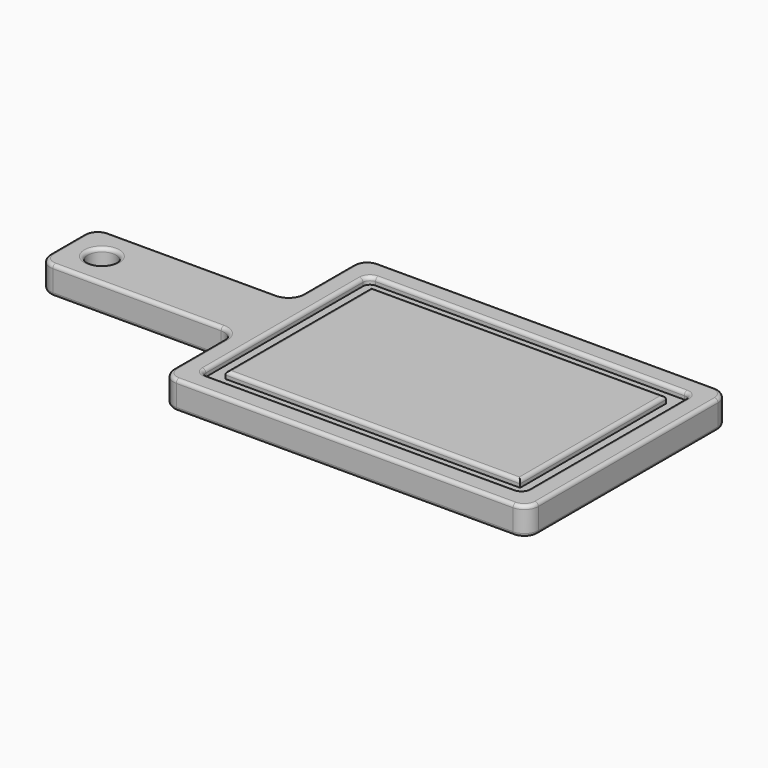
from build123d import *

# Parameters (mm, degrees)
F0_W     = 177.8
F0_H     = 63.5
F1_DEPTH = 25.4
F2_R     = 12.7
F3_DEPTH = 25.4
F5_DEPTH = 6.35
F6_R     = 6.35
F7_R     = 12.7
F8_R     = 3.175


with BuildPart() as f1:
    # F0 (on Top) → F1 (new body)
    with BuildSketch(Plane.XY):
        Polygon((0, 82.55), (0, 0), (330.2, 0), (330.2, 228.6), (0, 228.6), (0, 146.05), align=None)
        with Locations((-88.9, 114.3)):
            Rectangle(F0_W, F0_H)
    extrude(amount=F1_DEPTH)

    # F2 (on face) → F3 (cut)
    with BuildSketch(Plane(origin=(0, 0, 0), x_dir=(1, 0, 0), z_dir=(0, 0, -1))):
        with Locations((-146.05, -114.3)):
            Circle(F2_R)
    extrude(amount=-F3_DEPTH, mode=Mode.SUBTRACT)

    # F4 (on face) → F5 (cut)
    with BuildSketch(Plane.XY.offset(25.4)):
        Polygon((19.0500067234, 82.55), (19.0500067234, 19.0500067234), (311.1499932766, 19.0500067234), (311.1499932766, 209.5499932766), (19.0500067234, 209.5499932766), (19.0500067234, 146.05), align=None)
        Polygon((31.7500130892, 82.55), (31.7500130892, 146.05), (31.7500130892, 196.8499869108), (298.4499869108, 196.8499869108), (298.4499869108, 31.7500130892), (31.7500130892, 31.7500130892), align=None, mode=Mode.SUBTRACT)
    extrude(amount=-F5_DEPTH, mode=Mode.SUBTRACT)

    # F6
    f6_edges = [f1.edges().sort_by_distance(p)[0] for p in [
        (19.050007, 209.549993, 22.225),
        (311.149993, 209.549993, 22.225),
        (311.149993, 19.050007, 22.225),
        (19.050007, 19.050007, 22.225),
    ]]
    fillet(f6_edges, radius=F6_R)

    # F7
    f7_edges = [f1.edges().sort_by_distance(p)[0] for p in [
        (0, 0, 12.7),
        (330.2, 0, 12.7),
        (330.2, 228.6, 12.7),
        (0, 228.6, 12.7),
        (-177.8, 82.55, 12.7),
        (-177.8, 146.05, 12.7),
        (0, 146.05, 12.7),
        (0, 82.55, 12.7),
    ]]
    fillet(f7_edges, radius=F7_R)

    # F8
    f8_edges = [f1.edges().sort_by_distance(p)[0] for p in [
        (165.1, 196.849987, 25.4),
        (298.449987, 114.3, 25.4),
        (165.1, 31.750013, 25.4),
        (31.750013, 114.3, 25.4),
        (0, 41.275, 25.4),
        (-3.719744, 78.830256, 25.4),
        (3.719744, 3.719744, 25.4),
        (-88.9, 82.55, 25.4),
        (165.1, 0, 25.4),
        (-174.080256, 86.269744, 25.4),
        (326.480256, 3.719744, 25.4),
        (-177.8, 114.3, 25.4),
        (330.2, 114.3, 25.4),
        (-174.080256, 142.330256, 25.4),
        (326.480256, 224.880256, 25.4),
        (-88.9, 146.05, 25.4),
        (165.1, 228.6, 25.4),
        (-3.719744, 149.769744, 25.4),
        (3.719744, 224.880256, 25.4),
        (0, 187.325, 25.4),
        (165.1, 19.050007, 25.4),
        (20.909879, 20.909879, 25.4),
        (309.290121, 20.909879, 25.4),
        (19.050007, 114.3, 25.4),
        (311.149993, 114.3, 25.4),
        (20.909879, 207.690121, 25.4),
        (309.290121, 207.690121, 25.4),
        (165.1, 209.549993, 25.4),
        (-158.75, 114.3, 25.4),
        (0, 41.275, 0),
        (-3.719744, 78.830256, 0),
        (3.719744, 3.719744, 0),
        (-88.9, 82.55, 0),
        (165.1, 0, 0),
        (-174.080256, 86.269744, 0),
        (326.480256, 3.719744, 0),
        (-177.8, 114.3, 0),
        (330.2, 114.3, 0),
        (-174.080256, 142.330256, 0),
        (326.480256, 224.880256, 0),
        (-88.9, 146.05, 0),
        (165.1, 228.6, 0),
        (-3.719744, 149.769744, 0),
        (3.719744, 224.880256, 0),
        (0, 187.325, 0),
        (-158.75, 114.3, 0),
    ]]
    fillet(f8_edges, radius=F8_R)


solid = f1.part
